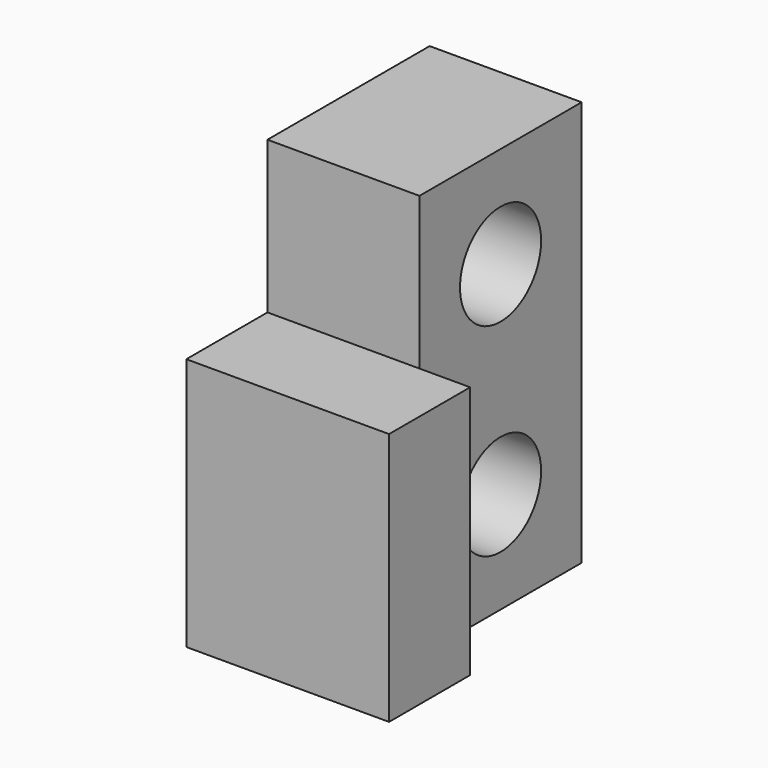
from build123d import *

# Parameters (mm, degrees)
F0_R     = 5
F1_DEPTH = 15
F0_W     = 10
F0_H     = 25
F2_DEPTH = 20


with BuildPart() as f1:
    # F0 (on Right) → F1 (new body)
    with BuildSketch(Plane.YZ):
        Polygon((10, 0), (-10, 0), (-10, -15), (-10, -40), (10, -40), align=None)
        with Locations((0, -30)):
            Circle(F0_R, mode=Mode.SUBTRACT)
        with Locations((0, -10)):
            Circle(F0_R, mode=Mode.SUBTRACT)
    extrude(amount=F1_DEPTH)


with BuildPart() as f2:
    # F0 (on Right) → F2 (new body)
    with BuildSketch(Plane.YZ):
        with Locations((-15, -27.5)):
            Rectangle(F0_W, F0_H)
    extrude(amount=F2_DEPTH)


solid = Compound([f1.part, f2.part])
